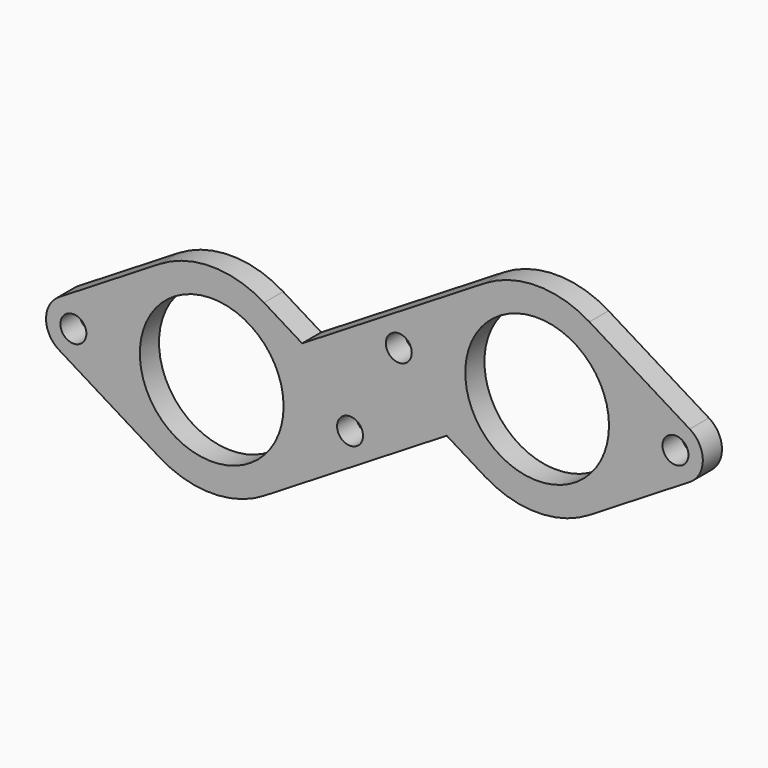
from build123d import *

# Parameters (mm, degrees)
F0_R     = 3.25
F0_R_2   = 18
F1_DEPTH = 6


with BuildPart() as f1:
    # F0 (on Front) → F1 (new body)
    with BuildSketch(Plane.XZ):
        with BuildLine():
            Line((-38.238095, -5.835073), (-13.095238, -21.295885))
            ThreePointArc((-13.095238, -21.295885), (0, -25), (13.095238, -21.295885))
            Line((13.095238, -21.295885), (58.865445, 6.849071))
            Line((58.865445, 6.849071), (68.416883, 0.975713))
            ThreePointArc((68.416883, 0.975713), (81.512121, -2.728402), (94.607359, 0.975713))
            Line((94.607359, 0.975713), (119.750216, 16.436526))
            ThreePointArc((119.750216, 16.436526), (123.012121, 22.271598), (119.750216, 28.106671))
            Line((119.750216, 28.106671), (94.607359, 43.567484))
            ThreePointArc((94.607359, 43.567484), (81.512121, 47.271598), (68.416883, 43.567484))
            Line((68.416883, 43.567484), (22.646676, 15.422528))
            Line((22.646676, 15.422528), (13.095238, 21.295885))
            ThreePointArc((13.095238, 21.295885), (0, 25), (-13.095238, 21.295885))
            Line((-13.095238, 21.295885), (-38.238095, 5.835073))
            ThreePointArc((-38.238095, 5.835073), (-41.5, 0), (-38.238095, -5.835073))
        make_face()
        with Locations((-34.65, 0)):
            Circle(F0_R, mode=Mode.SUBTRACT)
        Circle(F0_R_2, mode=Mode.SUBTRACT)
        with Locations((34.65, 0)):
            Circle(F0_R, mode=Mode.SUBTRACT)
        with Locations((46.862121, 22.271598)):
            Circle(F0_R, mode=Mode.SUBTRACT)
        with Locations((81.512121, 22.271598)):
            Circle(F0_R_2, mode=Mode.SUBTRACT)
        with Locations((116.162121, 22.271598)):
            Circle(F0_R, mode=Mode.SUBTRACT)
    extrude(amount=F1_DEPTH)


solid = f1.part
